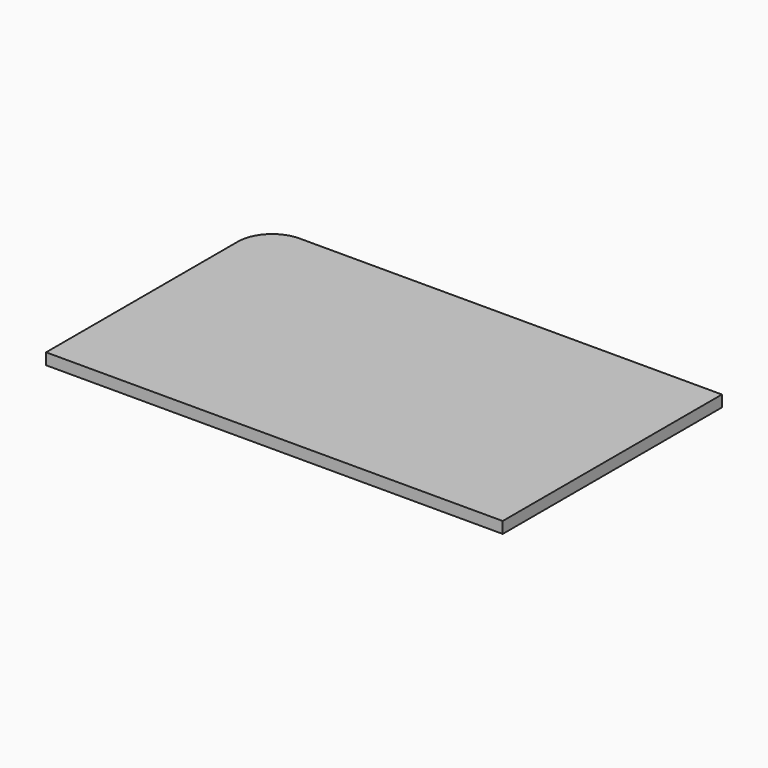
from build123d import *

# Parameters (mm, degrees)
F1_DEPTH = 3.175


with BuildPart() as f1:
    # F0 (on Top) → F1 (new body)
    with BuildSketch(Plane.XY):
        with BuildLine():
            Line((63.5, 38.1), (-53.96484, 38.1))
            ThreePointArc((-53.96484, 38.1), (-60.707216, 35.307216), (-63.5, 28.56484))
            Line((-63.5, 28.56484), (-63.5, -38.1))
            Line((-63.5, -38.1), (63.5, -38.1))
            Line((63.5, -38.1), (63.5, 38.1))
        make_face()
    extrude(amount=F1_DEPTH)


solid = f1.part
